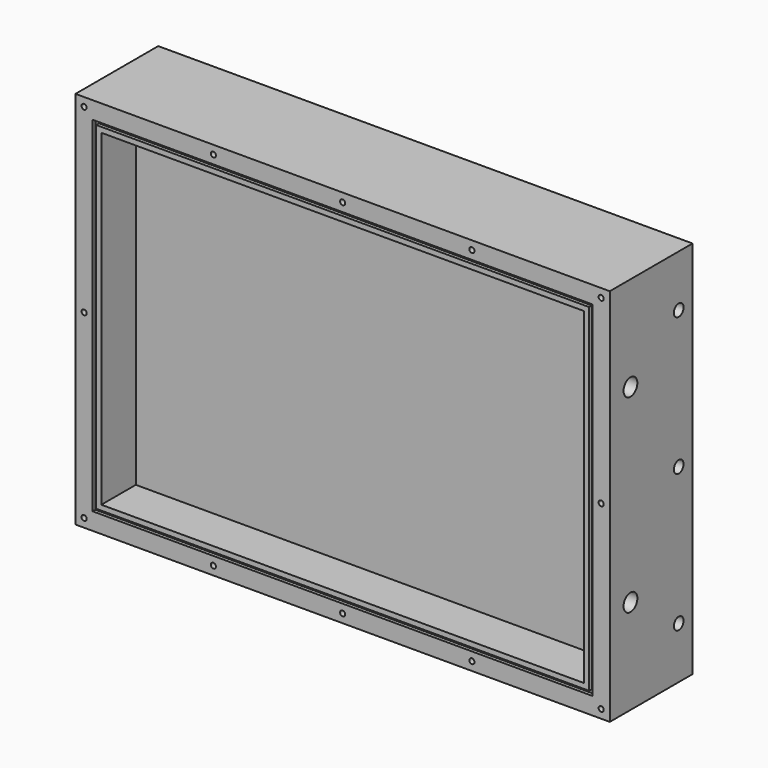
from build123d import *

# Parameters (mm, degrees)
F0_W      = 310
F0_H      = 220
F1_DEPTH  = 40
F2_T      = -15
F4_D      = 10
F4_DEPTH  = 15
F4_TIP    = 3.0043030951
F6_D      = 3
F6_DEPTH  = 10
F6_TIP    = 0.9012909285
F7_DEPTH  = 20
F9_D      = 7
F9_DEPTH  = 100
F9_TIP    = 2.1030121666
F11_D     = 7
F11_DEPTH = 100
F11_TIP   = 2.1030121666
F12_W     = 286
F12_H     = 2
F13_DEPTH = 2


with BuildPart() as f1:
    # F0 (on Front) → F1 (new body)
    with BuildSketch(Plane.XZ):
        Rectangle(F0_W, F0_H)
    extrude(amount=F1_DEPTH)

    # F2
    f2_openings = [f1.faces().sort_by_distance(p)[0] for p in [
        (0, -40, 0),
    ]]
    offset(amount=F2_T, openings=f2_openings)

    # F4
    with Locations(Plane.YZ.offset(155)):
        with Locations((-25, -55), (-25, 55)):
            Hole(F4_D / 2, depth=F4_DEPTH)
            with Locations((0, 0, -(F4_DEPTH + F4_TIP / 2))):  # 118° drill point
                Cone(0, F4_D / 2, F4_TIP, mode=Mode.SUBTRACT)

    # F6
    with Locations(Plane.XZ.offset(40)):
        with Locations((-150, -105), (-150, 0), (-150, 105), (-75, 105), (-75, -105), (0, -105), (75, -105), (150, -105), (150, 0), (150, 105), (75, 105), (0, 105)):
            Hole(F6_D / 2, depth=F6_DEPTH)
            with Locations((0, 0, -(F6_DEPTH + F6_TIP / 2))):  # 118° drill point
                Cone(0, F6_D / 2, F6_TIP, mode=Mode.SUBTRACT)

    # F7 (add): a face of the model
    f7_faces = [f1.faces().sort_by_distance(p)[0] for p in [
        (0, 0, 0),
    ]]
    extrude(f7_faces, amount=F7_DEPTH)

    # F9
    with Locations(Plane(origin=(-155, 0, 0), x_dir=(0, -1, 0), z_dir=(-1, 0, 0))):
        with Locations((-10, 80), (-10, 0), (-10, -80)):
            Hole(F9_D / 2, depth=F9_DEPTH)
            with Locations((0, 0, -(F9_DEPTH + F9_TIP / 2))):  # 118° drill point
                Cone(0, F9_D / 2, F9_TIP, mode=Mode.SUBTRACT)

    # F11
    with Locations(Plane.YZ.offset(155)):
        with Locations((10, -80), (10, 0), (10, 80)):
            Hole(F11_D / 2, depth=F11_DEPTH)
            with Locations((0, 0, -(F11_DEPTH + F11_TIP / 2))):  # 118° drill point
                Cone(0, F11_D / 2, F11_TIP, mode=Mode.SUBTRACT)

    # F12 (on face) → F13 (cut)
    with BuildSketch(Plane.XZ.offset(40)):
        Polygon((-145, -100), (-143, -100), (-143, -98), (-143, 98), (-143, 100), (-145, 100), align=None)
        with Locations((0, -99)):
            Rectangle(F12_W, F12_H)
        Polygon((143, -98), (143, -100), (145, -100), (145, 100), (143, 100), (143, 98), align=None)
        with Locations((0, 99)):
            Rectangle(F12_W, F12_H)
    extrude(amount=-F13_DEPTH, mode=Mode.SUBTRACT)


solid = f1.part
